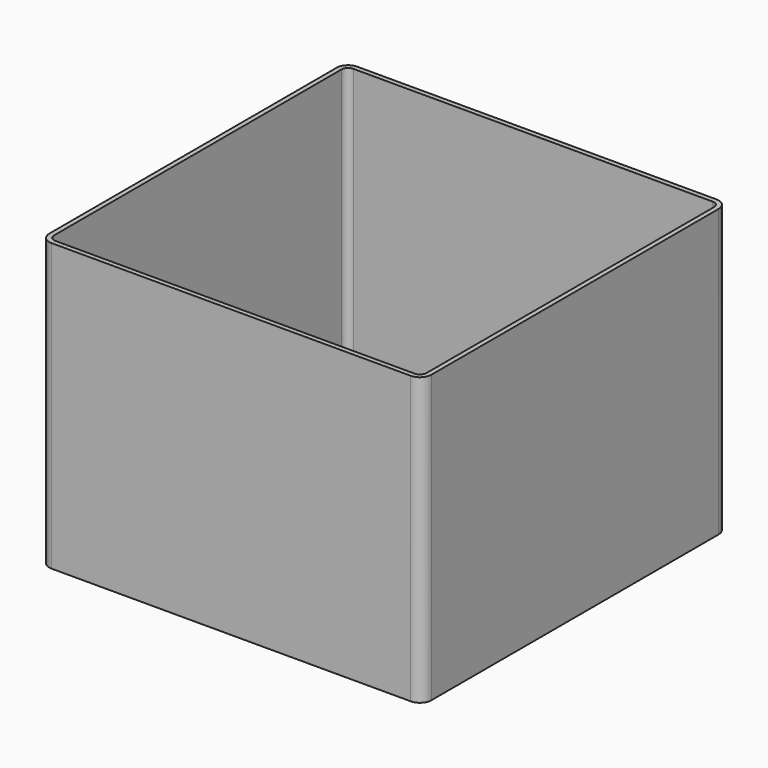
from build123d import *

# Parameters (mm, degrees)
SKETCH004_W     = 200
SKETCH004_H     = 200
PAD001_DEPTH    = 150
SKETCH005_W     = 195
SKETCH005_H     = 195
POCKET002_DEPTH = 147.5
FILLET_R        = 6
FILLET001_R     = 3.5


with BuildPart() as part:
    # Sketch004 → Pad001 (new body)
    with BuildSketch(Plane.XY):
        Rectangle(SKETCH004_W, SKETCH004_H)
    extrude(amount=PAD001_DEPTH)

    # Sketch005 (on Face6 of Pad001) → Pocket002 (cut)
    with BuildSketch(Plane.XY.offset(150)):
        Rectangle(SKETCH005_W, SKETCH005_H)
    extrude(amount=-POCKET002_DEPTH, mode=Mode.SUBTRACT)

    # Fillet
    fillet_edges = [part.edges().sort_by_distance(p)[0] for p in [
        (-100, -100, 75),
        (100, -100, 75),
        (100, 100, 75),
        (-100, 100, 75),
    ]]
    fillet(fillet_edges, radius=FILLET_R)

    # Fillet001
    fillet001_edges = [part.edges().sort_by_distance(p)[0] for p in [
        (97.5, 97.5, 76.25),
        (-97.5, 97.5, 76.25),
        (97.5, -97.5, 76.25),
        (-97.5, -97.5, 76.25),
    ]]
    fillet(fillet001_edges, radius=FILLET001_R)


solid = part.part
